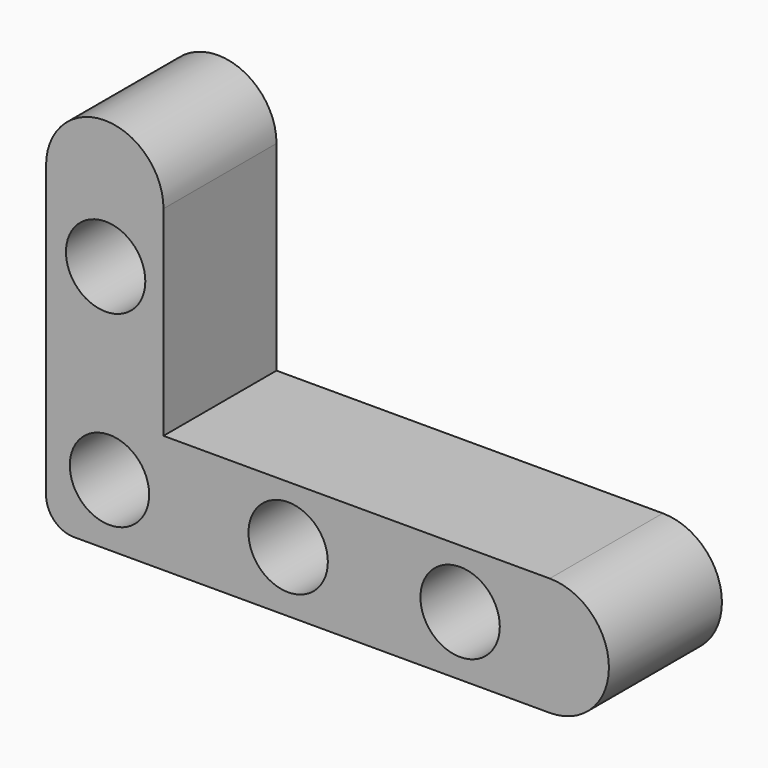
from build123d import *

# Parameters (mm, degrees)
F0_R     = 7.136281
F1_DEPTH = 25.4


with BuildPart() as f1:
    # F0 (on Front) → F1 (new body)
    with BuildSketch(Plane.XZ):
        with BuildLine():
            Line((-57.980478, 35.950955), (-57.980478, 0))
            Line((-57.980478, 0), (-36.868852, 0))
            Line((-36.868852, 0), (-36.868852, 35.950955))
            ThreePointArc((-36.868852, 35.950955), (-47.424665, 46.506768), (-57.980478, 35.950955))
        make_face()
        with Locations((-47.271684, 23.406368)):
            Circle(F0_R, mode=Mode.SUBTRACT)
        with BuildLine():
            Line((-36.868852, 0), (-57.980478, 0))
            Line((-57.980478, 0), (-57.980478, -16.264607))
            ThreePointArc((-57.980478, -16.264607), (-56.516012, -19.800141), (-52.980478, -21.264607))
            Line((-52.980478, -21.264607), (32.585338, -21.264607))
            ThreePointArc((32.585338, -21.264607), (43.217641, -10.632304), (32.585338, 0))
            Line((32.585338, 0), (-36.868852, 0))
        make_face()
        with Locations((-46.580479, -10.139286)):
            Circle(F0_R, mode=Mode.SUBTRACT)
        with Locations((-14.45601, -10.340063)):
            Circle(F0_R, mode=Mode.SUBTRACT)
        with Locations((16.463788, -10.540841)):
            Circle(F0_R, mode=Mode.SUBTRACT)
    extrude(amount=F1_DEPTH)


solid = f1.part
